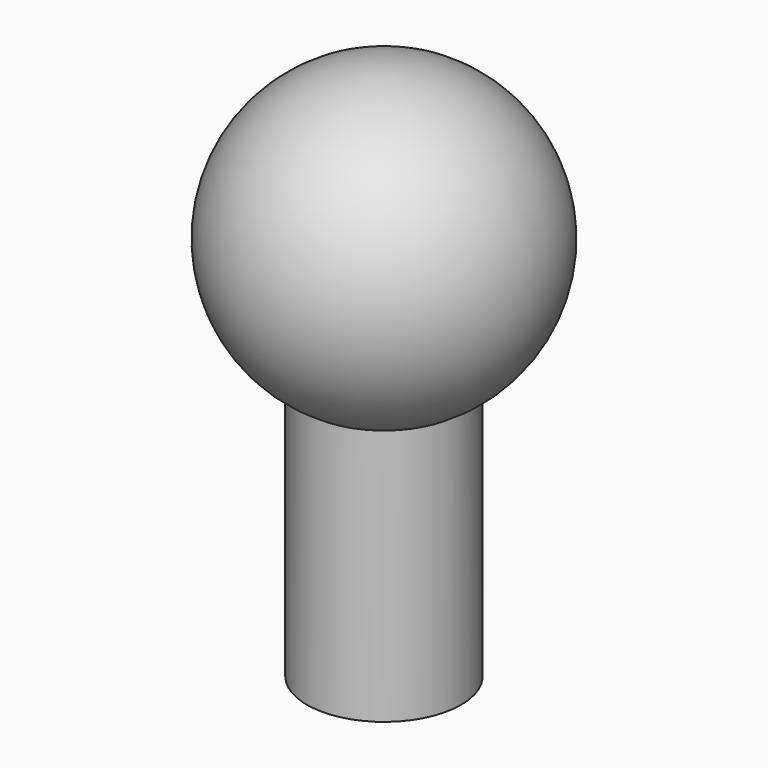
from build123d import *

# Parameters (mm, degrees)
F2_R     = 5
F3_DEPTH = 25


with BuildPart() as f1:
    # F0 (on Front) → F1 (revolve)
    with BuildSketch(Plane.XZ):
        with BuildLine():
            Line((0, 9.75), (0, -9.75))
            ThreePointArc((0, -9.75), (9.75, 0), (0, 9.75))
        make_face()
    revolve(axis=Axis((0, 0, 0), (0, 0, -1)))

    # F2 (on Top) → F3 (join)
    with BuildSketch(Plane.XY):
        Circle(F2_R)
    extrude(amount=-F3_DEPTH)


solid = f1.part
